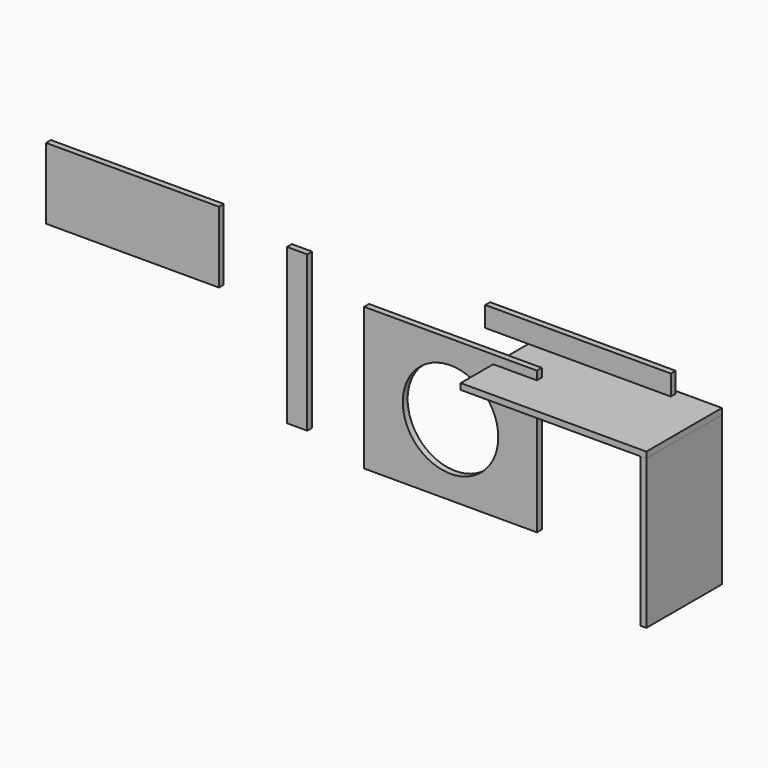
from build123d import *

# Parameters (mm, degrees)
F0_W      = 280
F0_H      = 460
F1_DEPTH  = 18
F2_W      = 550
F2_H      = 280
F3_DEPTH  = 18
F4_W      = 550
F4_H      = 60
F5_DEPTH  = 18
F6_W      = 60
F6_H      = 460
F7_DEPTH  = 18
F8_W      = 25
F8_H      = 422
F9_DEPTH  = 18
F10_W     = 462
F10_H     = 25
F11_DEPTH = 18
F13_W     = 512
F13_H     = 211
F14_DEPTH = 18
F15_W     = 512
F15_H     = 422
F16_DEPTH = 18
F17_R     = 141.5
F18_DEPTH = 159.400582


with BuildPart() as f1:
    # F0 (on Right) → F1 (new body)
    with BuildSketch(Plane.YZ):
        with Locations((1.399582, 122.71885)):
            Rectangle(F0_W, F0_H)
    extrude(amount=F1_DEPTH)


with BuildPart() as f3:
    # F2 (on face) → F3 (new body)
    with BuildSketch(Plane.XY.offset(352.71885)):
        with Locations((-257, 1.399582)):
            Rectangle(F2_W, F2_H)
    extrude(amount=-F3_DEPTH)


with BuildPart() as f5:
    # F4 (on Front) → F5 (new body)
    with BuildSketch(Plane.XZ):
        with Locations((-280.81126, 469.535388)):
            Rectangle(F4_W, F4_H)
    extrude(amount=F5_DEPTH)


with BuildPart() as f7:
    # F6 (on Front) → F7 (new body)
    with BuildSketch(Plane.XZ):
        with Locations((-1113.300681, 230.041797)):
            Rectangle(F6_W, F6_H)
    extrude(amount=F7_DEPTH)


with BuildPart() as f9:
    # F8 (on Front) → F9 (new body)
    with BuildSketch(Plane.XZ):
        with Locations((-1553.912302, 173.467372)):
            Rectangle(F8_W, F8_H)
    extrude(amount=F9_DEPTH)


with BuildPart() as f11:
    # F10 (on Front) → F11 (new body)
    with BuildSketch(Plane.XZ):
        with Locations((-1266.772479, 592.864828)):
            Rectangle(F10_W, F10_H)
    extrude(amount=F11_DEPTH)


with BuildPart() as f14:
    # F13 (on Front) → F14 (new body)
    with BuildSketch(Plane.XZ):
        with Locations((-1601.136148, 393.762083)):
            Rectangle(F13_W, F13_H)
    extrude(amount=F14_DEPTH)


with BuildPart() as f16:
    # F15 (on Front) → F16 (new body)
    with BuildSketch(Plane.XZ):
        with Locations((-658.706233, 167.181071)):
            Rectangle(F15_W, F15_H)
    extrude(amount=F16_DEPTH)

    # F17 (on face) → F18 (cut, through all)
    with BuildSketch(Plane.XZ.offset(18)):
        with Locations((-658.706233, 167.181071)):
            Circle(F17_R)
    extrude(amount=-F18_DEPTH, mode=Mode.SUBTRACT)


solid = Compound([f1.part, f3.part, f5.part, f7.part, f14.part, f16.part])
